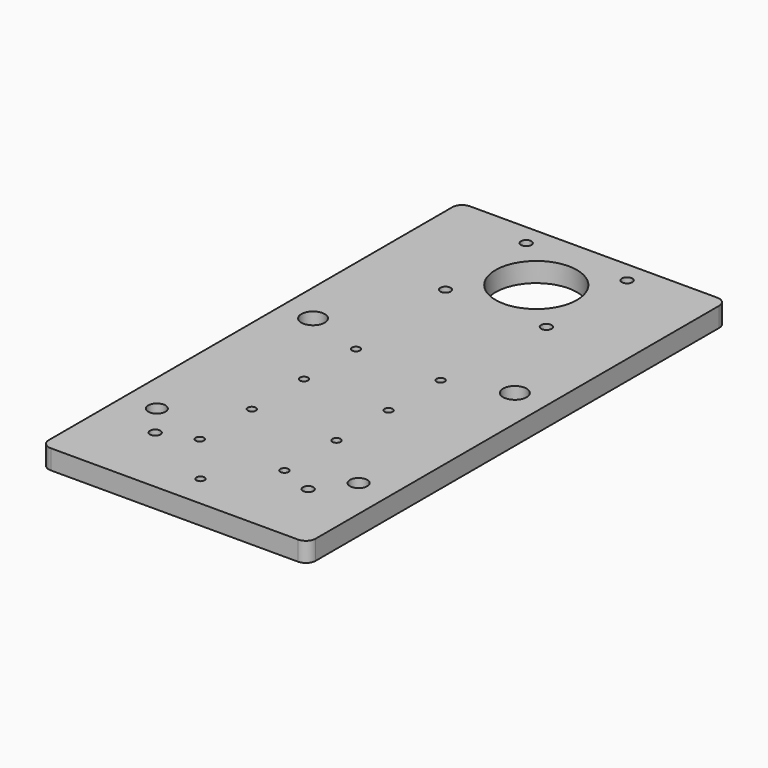
from build123d import *

# Parameters (mm, degrees)
PAD009_DEPTH    = 6
SKETCH051_R     = 1.6
HOLE023_DEPTH   = 25
SKETCH052_R     = 12.5
POCKET005_DEPTH = 6.001
SKETCH057_R     = 1.25
HOLE024_DEPTH   = 25
SKETCH054_R     = 1.25
HOLE025_DEPTH   = 25
SKETCH058_R     = 3.6
HOLE026_DEPTH   = 25
SKETCH056_R     = 2.65
HOLE027_DEPTH   = 25
SKETCH062_R     = 1.6
HOLE031_DEPTH   = 25


with BuildPart() as part:
    # Sketch059 → Pad009 (new body)
    with BuildSketch(Plane.XY):
        with BuildLine():
            Line((-38, 22), (38, 22))
            ThreePointArc((41, 19), (40.12132, 21.12132), (38, 22))
            Line((41, 19), (41, -136))
            ThreePointArc((38, -139), (40.12132, -138.12132), (41, -136))
            Line((38, -139), (-38, -139))
            ThreePointArc((-41, -136), (-40.12132, -138.12132), (-38, -139))
            Line((-41, -136), (-41, 19))
            ThreePointArc((-38, 22), (-40.12132, 21.12132), (-41, 19))
        make_face()
    extrude(amount=PAD009_DEPTH)

    # Sketch051 (on Face10 of Pad009) → Hole023 (cut)
    with BuildSketch(Plane.XY.offset(6)):
        with Locations((-15.5, 15.5)):
            Circle(SKETCH051_R)
        with Locations((15.5, 15.5)):
            Circle(SKETCH051_R)
        with Locations((-15.5, -15.5)):
            Circle(SKETCH051_R)
        with Locations((15.5, -15.5)):
            Circle(SKETCH051_R)
    extrude(amount=-HOLE023_DEPTH, mode=Mode.SUBTRACT)

    # Sketch052 (on Face5 of Hole023) → Pocket005 (cut, through all)
    with BuildSketch(Plane.XY.offset(6)):
        Circle(SKETCH052_R)
    extrude(amount=-POCKET005_DEPTH, mode=Mode.SUBTRACT)

    # Sketch057 (on Face5 of Pocket005) → Hole024 (cut)
    with BuildSketch(Plane.XY.offset(6)):
        with Locations((-13, -53)):
            Circle(SKETCH057_R)
        with Locations((-13, -73)):
            Circle(SKETCH057_R)
        with Locations((-13, -93)):
            Circle(SKETCH057_R)
        with Locations((-13, -113)):
            Circle(SKETCH057_R)
        with Locations((13, -53)):
            Circle(SKETCH057_R)
        with Locations((13, -73)):
            Circle(SKETCH057_R)
        with Locations((13, -93)):
            Circle(SKETCH057_R)
        with Locations((13, -113)):
            Circle(SKETCH057_R)
    extrude(amount=-HOLE024_DEPTH, mode=Mode.SUBTRACT)

    # Sketch054 (on Face5 of Hole024) → Hole025 (cut)
    with BuildSketch(Plane.XY.offset(6)):
        with Locations((0, -129)):
            Circle(SKETCH054_R)
    extrude(amount=-HOLE025_DEPTH, mode=Mode.SUBTRACT)

    # Sketch058 (on Face5 of Hole025) → Hole026 (cut)
    with BuildSketch(Plane.XY.offset(6)):
        with Locations((-31, -47)):
            Circle(SKETCH058_R)
        with Locations((31, -47)):
            Circle(SKETCH058_R)
    extrude(amount=-HOLE026_DEPTH, mode=Mode.SUBTRACT)

    # Sketch056 (on Face5 of Hole026) → Hole027 (cut)
    with BuildSketch(Plane.XY.offset(6)):
        with Locations((-31, -107)):
            Circle(SKETCH056_R)
        with Locations((31, -107)):
            Circle(SKETCH056_R)
    extrude(amount=-HOLE027_DEPTH, mode=Mode.SUBTRACT)

    # Sketch062 (on Face5 of Hole027) → Hole031 (cut)
    with BuildSketch(Plane.XY.offset(6)):
        with Locations((-23.5, -117)):
            Circle(SKETCH062_R)
        with Locations((23.5, -117)):
            Circle(SKETCH062_R)
    extrude(amount=-HOLE031_DEPTH, mode=Mode.SUBTRACT)


with BuildPart() as part_1:
    # Body019 placement: moved
    add(part.part.moved(Location((0, 0, 40))))


solid = part_1.part
